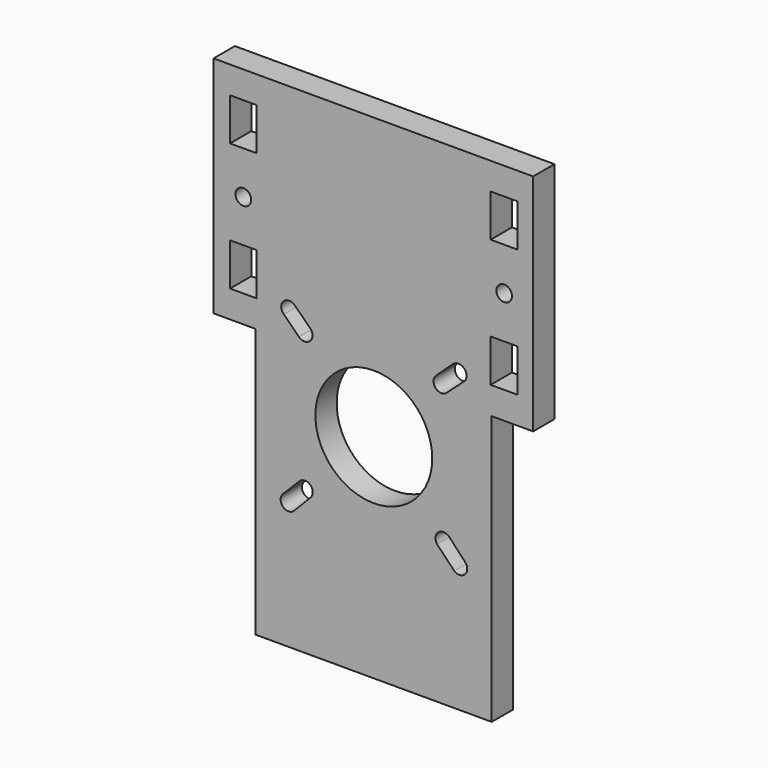
from build123d import *

# Parameters (mm, degrees)
F0_R     = 10.978044
F0_W     = 4.940685
F0_H     = 7.991237
F0_R_2   = 1.481086
F0_W_2   = 4.940115
F0_H_2   = 7.966079
F0_W_3   = 5.002896
F0_H_3   = 8.001204
F0_R_3   = 1.470755
F0_W_4   = 4.997425
F0_H_4   = 7.974718
F1_DEPTH = 5.0038


with BuildPart() as f1:
    # F0 (on Front) → F1 (new body)
    with BuildSketch(Plane.XZ):
        Polygon((29.282646, 29.627208), (-30.758047, 29.627208), (-30.758047, -12.548319), (-22.847719, -12.548319), (-22.847719, -63.122556), (21.501994, -63.122556), (21.501994, -12.548319), (29.282646, -12.548319), align=None)
        with BuildLine():
            ThreePointArc((-15.586378, -40.243281), (-17.742358, -40.254847), (-17.64737, -38.100929))
            Line((-17.64737, -38.100929), (-14.625554, -35.052073))
            ThreePointArc((-14.625554, -35.052073), (-12.57034, -35.03634), (-12.541453, -37.091411))
            Line((-12.541453, -37.091411), (-15.586378, -40.243281))
        make_face(mode=Mode.SUBTRACT)
        with BuildLine():
            ThreePointArc((16.426139, -38.233279), (16.534977, -40.292482), (14.478289, -40.441467))
            Line((14.478289, -40.441467), (11.236794, -37.068415))
            ThreePointArc((11.236794, -37.068415), (11.464462, -35.022049), (13.520983, -35.12287))
            ThreePointArc((13.520983, -35.12287), (13.537568, -35.140344), (13.55387, -35.158081))
            Line((13.55387, -35.158081), (16.426139, -38.233279))
        make_face(mode=Mode.SUBTRACT)
        with Locations((-0.654383, -23.181881)):
            Circle(F0_R, mode=Mode.SUBTRACT)
        with Locations((-25.189546, -3.442893)):
            Rectangle(F0_W, F0_H, mode=Mode.SUBTRACT)
        with BuildLine():
            ThreePointArc((-17.563489, -8.410167), (-17.594804, -6.240676), (-15.426944, -6.330432))
            Line((-15.426944, -6.330432), (-12.764063, -8.947979))
            ThreePointArc((-12.764063, -8.947979), (-12.531586, -11.12918), (-14.723433, -11.21573))
            Line((-14.723433, -11.21573), (-17.563489, -8.410167))
        make_face(mode=Mode.SUBTRACT)
        with Locations((-25.166028, 8.524365)):
            Circle(F0_R_2, mode=Mode.SUBTRACT)
        with Locations((-25.189262, 20.554467)):
            Rectangle(F0_W_2, F0_H_2, mode=Mode.SUBTRACT)
        with BuildLine():
            ThreePointArc((14.199827, -6.306034), (16.317638, -6.34597), (16.353841, -8.463848))
            Line((16.353841, -8.463848), (13.079717, -11.405483))
            ThreePointArc((13.079717, -11.405483), (10.953875, -11.342186), (11.064754, -9.218293))
            Line((11.064754, -9.218293), (14.199827, -6.306034))
        make_face(mode=Mode.SUBTRACT)
        with Locations((23.799085, -3.43791)):
            Rectangle(F0_W_3, F0_H_3, mode=Mode.SUBTRACT)
        with Locations((23.838598, 8.52569)):
            Circle(F0_R_3, mode=Mode.SUBTRACT)
        with Locations((23.80182, 20.558786)):
            Rectangle(F0_W_4, F0_H_4, mode=Mode.SUBTRACT)
    extrude(amount=F1_DEPTH)


solid = f1.part
